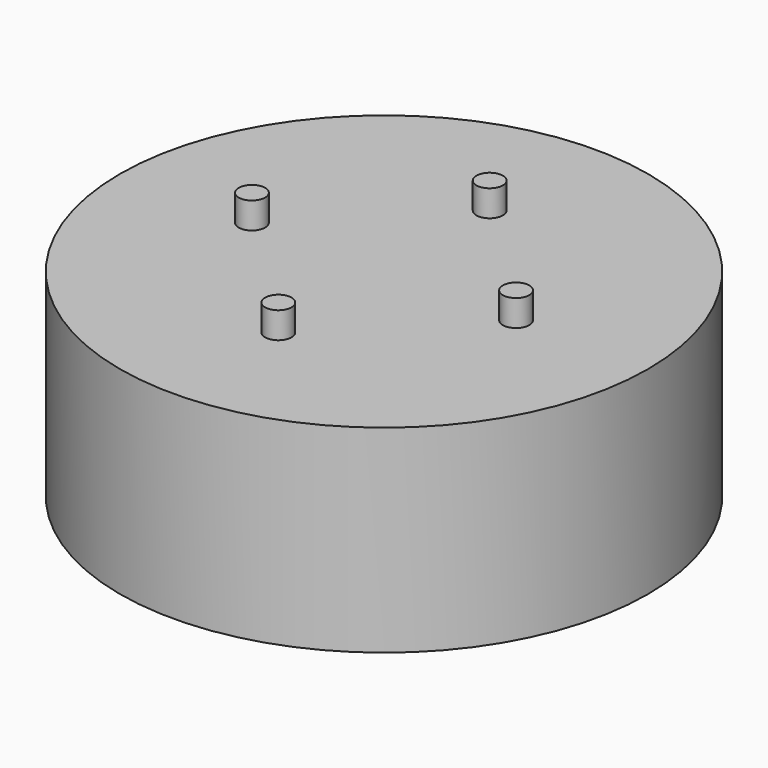
from build123d import *

# Parameters (mm, degrees)
F0_R     = 20
F1_DEPTH = 15
F2_R     = 1
F3_DEPTH = 2


with BuildPart() as f1:
    # F0 (on Top) → F1 (new body)
    with BuildSketch(Plane.XY):
        Circle(F0_R)
    extrude(amount=F1_DEPTH)

    # F2 (on face) → F3 (join)
    with BuildSketch(Plane.XY.offset(15)):
        with Locations((0, 10)):
            Circle(F2_R)
        with Locations((10, 0)):
            Circle(F2_R)
        with Locations((0, -10)):
            Circle(F2_R)
        with Locations((-10, 0)):
            Circle(F2_R)
    extrude(amount=F3_DEPTH)


solid = f1.part
